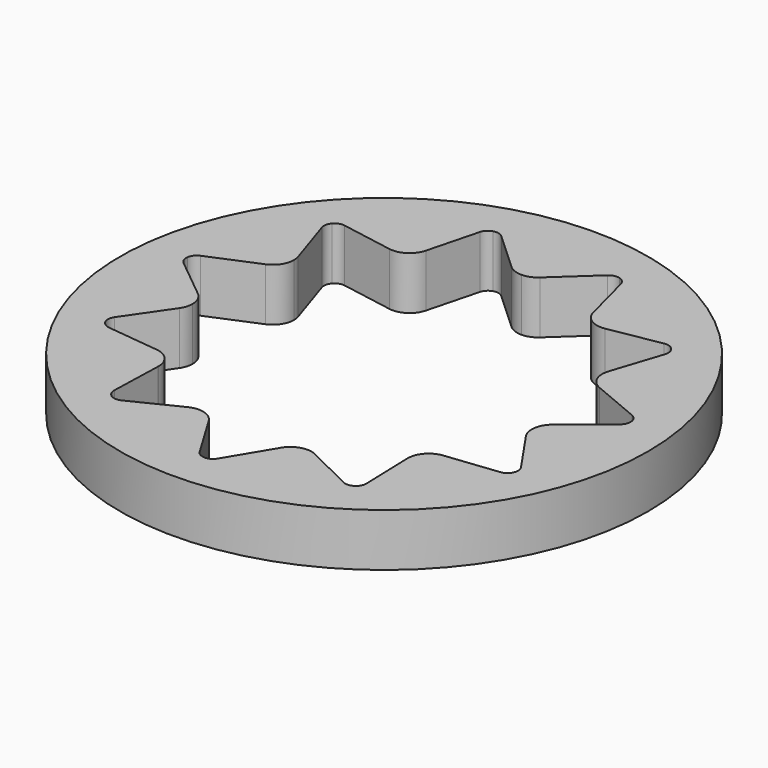
from build123d import *

# Parameters (mm, degrees)
F0_R     = 15.875
F1_DEPTH = 3.175


with BuildPart() as f1:
    # F0 (on Top) → F1 (new body)
    with BuildSketch(Plane.XY):
        Circle(F0_R)
        with BuildLine():
            ThreePointArc((0, 13.49375), (1.920361, 13.356403), (3.801629, 12.947158))
            ThreePointArc((3.801629, 12.947158), (7.295272, 11.351665), (10.197896, 8.836527))
            ThreePointArc((10.197896, 8.836527), (12.274347, 5.605506), (13.356403, 1.920361))
            ThreePointArc((13.356403, 1.920361), (13.459369, 0.962633), (13.49375, 0))
            ThreePointArc((13.49375, 0), (13.185376, -2.868303), (12.274347, -5.605506))
            ThreePointArc((12.274347, -5.605506), (10.197896, -8.836527), (7.295272, -11.351665))
            ThreePointArc((7.295272, -11.351665), (3.801629, -12.947158), (0, -13.49375))
            ThreePointArc((0, -13.49375), (-3.801629, -12.947158), (-7.295272, -11.351665))
            ThreePointArc((-7.295272, -11.351665), (-10.197896, -8.836527), (-12.274347, -5.605506))
            ThreePointArc((-12.274347, -5.605506), (-13.356403, -1.920361), (-13.356403, 1.920361))
            ThreePointArc((-13.356403, 1.920361), (-12.274347, 5.605506), (-10.197896, 8.836527))
            ThreePointArc((-10.197896, 8.836527), (-7.295272, 11.351665), (-3.801629, 12.947158))
            ThreePointArc((-3.801629, 12.947158), (-1.920361, 13.356403), (0, 13.49375))
        make_face(mode=Mode.SUBTRACT)
        with BuildLine():
            ThreePointArc((-4.237237, 12.497892), (-4.078617, 12.77991), (-3.801629, 12.947158))
            ThreePointArc((-3.801629, 12.947158), (-7.295272, 11.351665), (-10.197896, 8.836527))
            ThreePointArc((-10.197896, 8.836527), (-9.930697, 9.019007), (-9.608271, 9.046139))
            Line((-9.608271, 9.046139), (-6.484799, 8.49818))
            ThreePointArc((-6.484799, 8.49818), (-7.082113, 10.721599), (-4.995351, 9.749077))
            ThreePointArc((-4.995351, 9.749077), (-5.005639, 9.587758), (-5.036334, 9.429053))
            Line((-5.036334, 9.429053), (-4.237237, 12.497892))
        make_face()
        with BuildLine():
            ThreePointArc((-6.484799, 8.49818), (-5.578737, 8.680685), (-5.036334, 9.429053))
            ThreePointArc((-5.036334, 9.429053), (-5.005639, 9.587758), (-4.995351, 9.749077))
            ThreePointArc((-4.995351, 9.749077), (-7.082113, 10.721599), (-6.484799, 8.49818))
        make_face()
        with BuildLine():
            ThreePointArc((-13.128695, 1.337485), (-13.319334, 1.598926), (-13.356403, 1.920361))
            ThreePointArc((-13.356403, 1.920361), (-13.356403, -1.920361), (-12.274347, -5.605506))
            ThreePointArc((-12.274347, -5.605506), (-12.329338, -5.286648), (-12.220077, -4.982089))
            Line((-12.220077, -4.982089), (-10.4241, -2.368509))
            ThreePointArc((-10.4241, -2.368509), (-12.727866, -1.829991), (-10.669136, -0.66424))
            Line((-10.669136, -0.66424), (-13.128695, 1.337485))
        make_face()
        with BuildLine():
            ThreePointArc((-10.200793, -1.649251), (-10.32384, -1.103909), (-10.669136, -0.66424))
            ThreePointArc((-10.669136, -0.66424), (-12.727866, -1.829991), (-10.4241, -2.368509))
            ThreePointArc((-10.4241, -2.368509), (-10.257904, -2.025814), (-10.200793, -1.649251))
        make_face()
        with BuildLine():
            ThreePointArc((-10.321462, 8.223073), (-10.340492, 8.546078), (-10.197896, 8.836527))
            ThreePointArc((-10.197896, 8.836527), (-12.274347, 5.605506), (-13.356403, 1.920361))
            ThreePointArc((-13.356403, 1.920361), (-13.230277, 2.218332), (-12.973704, 2.415473))
            Line((-12.973704, 2.415473), (-10.049823, 3.643177))
            ThreePointArc((-10.049823, 3.643177), (-11.69673, 5.341718), (-9.334564, 5.209376))
            Line((-9.334564, 5.209376), (-10.321462, 8.223073))
        make_face()
        with BuildLine():
            ThreePointArc((-9.271498, 4.814141), (-9.287363, 5.014259), (-9.334564, 5.209376))
            ThreePointArc((-9.334564, 5.209376), (-11.69673, 5.341718), (-10.049823, 3.643177))
            ThreePointArc((-10.049823, 3.643177), (-9.483829, 4.111121), (-9.271498, 4.814141))
        make_face()
        with BuildLine():
            Line((0, 12.85875), (0, 13.49375))
            ThreePointArc((0, 13.49375), (-1.920361, 13.356403), (-3.801629, 12.947158))
            ThreePointArc((-3.801629, 12.947158), (-3.47819, 12.956212), (-3.19228, 12.80472))
            Line((-3.19228, 12.80472), (-0.860897, 10.655071))
            ThreePointArc((-0.860897, 10.655071), (-1.182935, 12.05088), (0, 12.85875))
        make_face()
        with BuildLine():
            ThreePointArc((1.27, 11.58875), (0.898026, 12.486776), (0, 12.85875))
            Line((0, 12.85875), (0, 10.31875))
            ThreePointArc((0, 10.31875), (0.46213, 10.405815), (0.860897, 10.655071))
            ThreePointArc((0.860897, 10.655071), (1.163237, 11.079064), (1.27, 11.58875))
        make_face()
        with BuildLine():
            ThreePointArc((3.19228, 12.80472), (3.47819, 12.956212), (3.801629, 12.947158))
            ThreePointArc((3.801629, 12.947158), (1.920361, 13.356403), (0, 13.49375))
            Line((0, 13.49375), (0, 12.85875))
            ThreePointArc((0, 12.85875), (0.898026, 12.486776), (1.27, 11.58875))
            ThreePointArc((1.27, 11.58875), (1.163237, 11.079064), (0.860897, 10.655071))
            Line((0.860897, 10.655071), (3.19228, 12.80472))
        make_face()
        with BuildLine():
            Line((0, 10.31875), (0, 12.85875))
            ThreePointArc((0, 12.85875), (-1.182935, 12.05088), (-0.860897, 10.655071))
            ThreePointArc((-0.860897, 10.655071), (-0.46213, 10.405815), (0, 10.31875))
        make_face()
        with BuildLine():
            ThreePointArc((10.197896, 8.836527), (7.295272, 11.351665), (3.801629, 12.947158))
            ThreePointArc((3.801629, 12.947158), (4.078617, 12.77991), (4.237237, 12.497892))
            Line((4.237237, 12.497892), (5.036334, 9.429053))
            ThreePointArc((5.036334, 9.429053), (6.104032, 11.00879), (7.535351, 9.749077))
            ThreePointArc((7.535351, 9.749077), (7.237874, 8.932315), (6.484799, 8.49818))
            Line((6.484799, 8.49818), (9.608271, 9.046139))
            ThreePointArc((9.608271, 9.046139), (9.930697, 9.019007), (10.197896, 8.836527))
        make_face()
        with BuildLine():
            ThreePointArc((7.535351, 9.749077), (6.104032, 11.00879), (5.036334, 9.429053))
            ThreePointArc((5.036334, 9.429053), (5.578737, 8.680685), (6.484799, 8.49818))
            ThreePointArc((6.484799, 8.49818), (7.237874, 8.932315), (7.535351, 9.749077))
        make_face()
        with BuildLine():
            ThreePointArc((13.356403, 1.920361), (12.274347, 5.605506), (10.197896, 8.836527))
            ThreePointArc((10.197896, 8.836527), (10.312958, 8.6426), (10.352995, 8.420691))
            ThreePointArc((10.352995, 8.420691), (10.345062, 8.320632), (10.321462, 8.223073))
            Line((10.321462, 8.223073), (9.334564, 5.209376))
            ThreePointArc((9.334564, 5.209376), (10.741616, 6.068275), (11.811498, 4.814141))
            ThreePointArc((11.811498, 4.814141), (11.244518, 3.756472), (10.049823, 3.643177))
            Line((10.049823, 3.643177), (12.973704, 2.415473))
            ThreePointArc((12.973704, 2.415473), (13.230277, 2.218332), (13.356403, 1.920361))
        make_face()
        with BuildLine():
            ThreePointArc((9.334564, 5.209376), (9.386265, 4.286564), (10.049823, 3.643177))
            ThreePointArc((10.049823, 3.643177), (11.244518, 3.756472), (11.811498, 4.814141))
            ThreePointArc((11.811498, 4.814141), (10.741616, 6.068275), (9.334564, 5.209376))
        make_face()
        with BuildLine():
            ThreePointArc((13.49375, 0), (13.459369, 0.962633), (13.356403, 1.920361))
            ThreePointArc((13.356403, 1.920361), (13.361249, 1.875291), (13.362866, 1.829991))
            ThreePointArc((13.362866, 1.829991), (13.301343, 1.55732), (13.128695, 1.337486))
            Line((13.128695, 1.337486), (10.669136, -0.66424))
            ThreePointArc((10.669136, -0.66424), (12.016135, -0.502298), (12.740793, -1.649251))
            ThreePointArc((12.740793, -1.649251), (11.847356, -2.86214), (10.4241, -2.368509))
            Line((10.4241, -2.368509), (12.220077, -4.982089))
            ThreePointArc((12.220077, -4.982089), (12.303175, -5.153436), (12.33173, -5.341718))
            ThreePointArc((12.33173, -5.341718), (12.317219, -5.476697), (12.274347, -5.605506))
            ThreePointArc((12.274347, -5.605506), (13.185376, -2.868303), (13.49375, 0))
        make_face()
        with BuildLine():
            ThreePointArc((12.740793, -1.649251), (12.016135, -0.502298), (10.669136, -0.66424))
            ThreePointArc((10.669136, -0.66424), (10.21372, -1.468511), (10.4241, -2.368509))
            ThreePointArc((10.4241, -2.368509), (11.847356, -2.86214), (12.740793, -1.649251))
        make_face()
        with BuildLine():
            ThreePointArc((7.295272, -11.351665), (10.197896, -8.836527), (12.274347, -5.605506))
            ThreePointArc((12.274347, -5.605506), (12.069382, -5.855873), (11.76766, -5.972744))
            Line((11.76766, -5.972744), (8.616333, -6.326965))
            ThreePointArc((8.616333, -6.326965), (9.604579, -6.642164), (10.028193, -7.589017))
            ThreePointArc((10.028193, -7.589017), (8.777792, -8.858866), (7.488798, -7.628211))
            Line((7.488798, -7.628211), (7.586663, -10.797872))
            ThreePointArc((7.586663, -10.797872), (7.58689, -10.807669), (7.586965, -10.817469))
            ThreePointArc((7.586965, -10.817469), (7.509291, -11.121792), (7.295272, -11.351665))
        make_face()
        with BuildLine():
            ThreePointArc((10.028193, -7.589017), (9.604579, -6.642164), (8.616333, -6.326965))
            ThreePointArc((8.616333, -6.326965), (7.798391, -6.757344), (7.488798, -7.628211))
            ThreePointArc((7.488798, -7.628211), (8.777792, -8.858866), (10.028193, -7.589017))
        make_face()
        with BuildLine():
            ThreePointArc((0, -13.49375), (3.801629, -12.947158), (7.295272, -11.351665))
            ThreePointArc((7.295272, -11.351665), (6.987486, -11.451475), (6.670477, -11.386669))
            Line((6.670477, -11.386669), (3.827905, -9.980923))
            ThreePointArc((3.827905, -9.980923), (4.343789, -10.44928), (4.534928, -11.119324))
            ThreePointArc((4.534928, -11.119324), (2.925975, -12.343257), (2.175856, -10.466009))
            Line((2.175856, -10.466009), (0.544536, -13.185408))
            ThreePointArc((0.544536, -13.185408), (0.312888, -13.411313), (0, -13.49375))
        make_face()
        with BuildLine():
            ThreePointArc((4.534928, -11.119324), (4.343789, -10.44928), (3.827905, -9.980923))
            ThreePointArc((3.827905, -9.980923), (2.907128, -9.900768), (2.175856, -10.466009))
            ThreePointArc((2.175856, -10.466009), (2.925975, -12.343257), (4.534928, -11.119324))
        make_face()
        with BuildLine():
            ThreePointArc((-6.670476, -11.386669), (-6.987486, -11.451475), (-7.295272, -11.351665))
            ThreePointArc((-7.295272, -11.351665), (-3.801629, -12.947158), (0, -13.49375))
            ThreePointArc((0, -13.49375), (-0.312888, -13.411313), (-0.544536, -13.185408))
            Line((-0.544536, -13.185408), (-2.175856, -10.466009))
            ThreePointArc((-2.175856, -10.466009), (-2.040996, -10.780371), (-1.994928, -11.119324))
            ThreePointArc((-1.994928, -11.119324), (-3.934973, -12.198185), (-3.827905, -9.980923))
            Line((-3.827905, -9.980923), (-6.670476, -11.386669))
        make_face()
        with BuildLine():
            ThreePointArc((-2.175856, -10.466009), (-2.907128, -9.900768), (-3.827905, -9.980923))
            ThreePointArc((-3.827905, -9.980923), (-3.934973, -12.198185), (-1.994928, -11.119324))
            ThreePointArc((-1.994928, -11.119324), (-2.040996, -10.780371), (-2.175856, -10.466009))
        make_face()
        with BuildLine():
            ThreePointArc((-11.76766, -5.972744), (-12.069382, -5.855874), (-12.274347, -5.605506))
            ThreePointArc((-12.274347, -5.605506), (-10.197896, -8.836527), (-7.295272, -11.351665))
            ThreePointArc((-7.295272, -11.351665), (-7.513921, -11.113155), (-7.586663, -10.797872))
            Line((-7.586663, -10.797872), (-7.488798, -7.628211))
            ThreePointArc((-7.488798, -7.628211), (-9.717995, -8.42069), (-8.616333, -6.326965))
            Line((-8.616333, -6.326965), (-11.76766, -5.972744))
        make_face()
        with BuildLine():
            ThreePointArc((-7.488193, -7.589017), (-7.81134, -6.742631), (-8.616333, -6.326965))
            ThreePointArc((-8.616333, -6.326965), (-9.717995, -8.42069), (-7.488798, -7.628211))
            ThreePointArc((-7.488798, -7.628211), (-7.488344, -7.608616), (-7.488193, -7.589017))
        make_face()
    extrude(amount=-F1_DEPTH)


solid = f1.part
